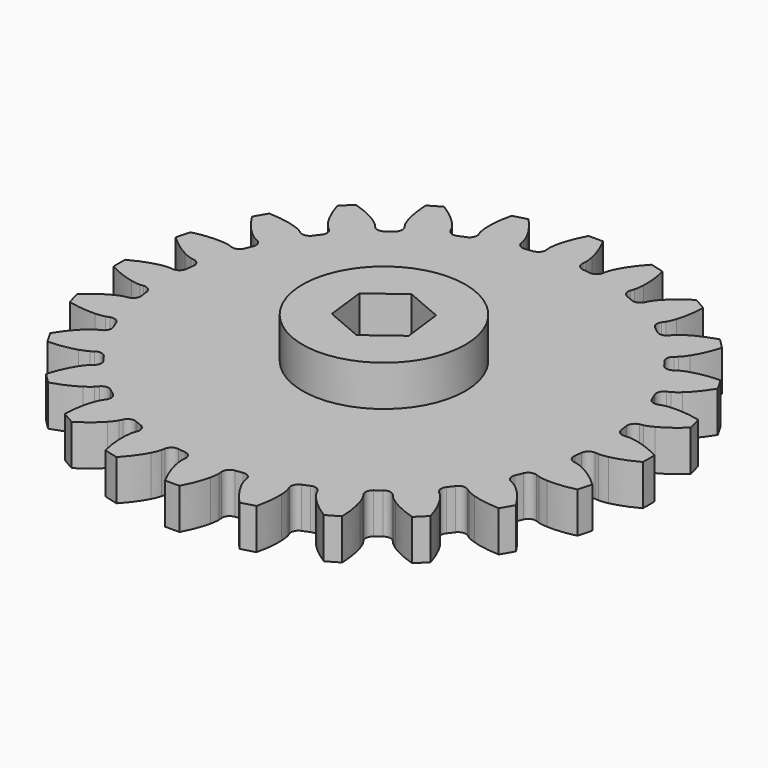
from build123d import *

# Parameters (mm, degrees)
PAD_DEPTH       = 5
SKETCH002_R     = 3
POCKET_DEPTH    = 5
SKETCH_R        = 10
PAD001_DEPTH    = 5
POCKET001_DEPTH = 5
POCKET002_DEPTH = 3


with BuildPart() as part:
    # InvoluteGear → Pad (new body)
    with BuildSketch(Plane.XY):
        with BuildLine():
            Line((27.707004, -2.231179), (28.147467, -2.264769))
            add(Edge.make_bspline(
                [(28.147467, -2.264769), (28.273431, -2.267597), (28.652855, -2.261591), (29.285049, -2.127529)],
                knots=[0, 0, 0, 0, 1, 1, 1, 1], degree=3))
            add(Edge.make_bspline(
                [(29.285049, -2.127529), (30.042188, -1.964859), (31.134803, -1.620017), (32.490331, -0.893376)],
                knots=[0, 0, 0, 0, 1, 1, 1, 1], degree=3))
            ThreePointArc((32.490331, -0.893376), (32.502612, 0), (32.490331, 0.893376))
            add(Edge.make_bspline(
                [(32.490331, 0.893376), (31.134803, 1.620017), (30.042188, 1.964859), (29.285049, 2.127529)],
                knots=[0, 0, 0, 0, 1, 1, 1, 1], degree=3))
            add(Edge.make_bspline(
                [(29.285049, 2.127529), (28.652855, 2.261591), (28.273431, 2.267597), (28.147467, 2.264769)],
                knots=[0, 0, 0, 0, 1, 1, 1, 1], degree=3))
            Line((28.147467, 2.264769), (27.707004, 2.231179))
            ThreePointArc((27.707004, 2.231179), (27.03651, 2.441367), (26.700404, 3.058436))
            ThreePointArc((26.700404, 3.058436), (26.645081, 3.507891), (26.582192, 3.956351))
            ThreePointArc((26.582192, 3.956351), (26.747136, 4.639385), (27.340383, 5.015947))
            Line((27.340383, 5.015947), (27.77453, 5.097502))
            add(Edge.make_bspline(
                [(27.77453, 5.097502), (27.896935, 5.127372), (28.261876, 5.231376), (28.83783, 5.524493)],
                knots=[0, 0, 0, 0, 1, 1, 1, 1], degree=3))
            add(Edge.make_bspline(
                [(28.83783, 5.524493), (29.527068, 5.877583), (30.493201, 6.493464), (31.614472, 7.546182)],
                knots=[0, 0, 0, 0, 1, 1, 1, 1], degree=3))
            ThreePointArc((31.614472, 7.546182), (31.395112, 8.412295), (31.152027, 9.272051))
            add(Edge.make_bspline(
                [(31.152027, 9.272051), (29.654619, 9.623096), (28.509983, 9.673398), (27.73654, 9.634563)],
                knots=[0, 0, 0, 0, 1, 1, 1, 1], degree=3))
            add(Edge.make_bspline(
                [(27.73654, 9.634563), (27.09119, 9.600434), (26.72314, 9.508033), (26.6022, 9.472699)],
                knots=[0, 0, 0, 0, 1, 1, 1, 1], degree=3))
            Line((26.6022, 9.472699), (26.185439, 9.326254))
            ThreePointArc((26.185439, 9.326254), (25.483391, 9.355743), (24.999029, 9.864795))
            ThreePointArc((24.999029, 9.864795), (24.829262, 10.284617), (24.652446, 10.701519))
            ThreePointArc((24.652446, 10.701519), (24.634988, 11.40397), (25.110559, 11.921244))
            Line((25.110559, 11.921244), (25.508806, 12.112386))
            add(Edge.make_bspline(
                [(25.508806, 12.112386), (25.619308, 12.172919), (25.944896, 12.367832), (26.42536, 12.80003)],
                knots=[0, 0, 0, 0, 1, 1, 1, 1], degree=3))
            add(Edge.make_bspline(
                [(26.42536, 12.80003), (26.999727, 13.319477), (27.773538, 14.164426), (28.58414, 15.471479)],
                knots=[0, 0, 0, 0, 1, 1, 1, 1], degree=3))
            ThreePointArc((28.58414, 15.471479), (28.148088, 16.251306), (27.690764, 17.018852))
            add(Edge.make_bspline(
                [(27.690764, 17.018852), (26.153522, 16.970377), (25.034869, 16.722711), (24.297832, 16.485018)],
                knots=[0, 0, 0, 0, 1, 1, 1, 1], degree=3))
            add(Edge.make_bspline(
                [(24.297832, 16.485018), (23.683305, 16.285023), (23.351711, 16.100512), (23.244037, 16.035081)],
                knots=[0, 0, 0, 0, 1, 1, 1, 1], degree=3))
            Line((23.244037, 16.035081), (22.87938, 15.78576))
            ThreePointArc((22.87938, 15.78576), (22.193621, 15.632541), (21.594011, 15.998885))
            ThreePointArc((21.594011, 15.998885), (21.321371, 16.360463), (21.042678, 16.717396))
            ThreePointArc((21.042678, 16.717396), (20.844007, 17.391393), (21.169493, 18.014129))
            Line((21.169493, 18.014129), (21.504698, 18.301831))
            add(Edge.make_bspline(
                [(21.504698, 18.301831), (21.595768, 18.388902), (21.859815, 18.661442), (22.212046, 19.203266)],
                knots=[0, 0, 0, 0, 1, 1, 1, 1], degree=3))
            add(Edge.make_bspline(
                [(22.212046, 19.203266), (22.6324, 19.85367), (23.161155, 20.870105), (23.605845, 22.342421)],
                knots=[0, 0, 0, 0, 1, 1, 1, 1], degree=3))
            ThreePointArc((23.605845, 22.342421), (22.982817, 22.982817), (22.342421, 23.605845))
            add(Edge.make_bspline(
                [(22.342421, 23.605845), (20.870105, 23.161155), (19.85367, 22.6324), (19.203266, 22.212046)],
                knots=[0, 0, 0, 0, 1, 1, 1, 1], degree=3))
            add(Edge.make_bspline(
                [(19.203266, 22.212046), (18.661442, 21.859815), (18.388902, 21.595768), (18.301831, 21.504698)],
                knots=[0, 0, 0, 0, 1, 1, 1, 1], degree=3))
            Line((18.301831, 21.504698), (18.014129, 21.169493))
            ThreePointArc((18.014129, 21.169493), (17.391393, 20.844007), (16.717396, 21.042678))
            ThreePointArc((16.717396, 21.042678), (16.360463, 21.321371), (15.998885, 21.594011))
            ThreePointArc((15.998885, 21.594011), (15.632541, 22.193621), (15.78576, 22.87938))
            Line((15.78576, 22.87938), (16.035081, 23.244037))
            add(Edge.make_bspline(
                [(16.035081, 23.244037), (16.100512, 23.351711), (16.285023, 23.683305), (16.485018, 24.297832)],
                knots=[0, 0, 0, 0, 1, 1, 1, 1], degree=3))
            add(Edge.make_bspline(
                [(16.485018, 24.297832), (16.722711, 25.034869), (16.970377, 26.153522), (17.018852, 27.690764)],
                knots=[0, 0, 0, 0, 1, 1, 1, 1], degree=3))
            ThreePointArc((17.018852, 27.690764), (16.251306, 28.148088), (15.471479, 28.58414))
            add(Edge.make_bspline(
                [(15.471479, 28.58414), (14.164426, 27.773538), (13.319477, 26.999727), (12.80003, 26.42536)],
                knots=[0, 0, 0, 0, 1, 1, 1, 1], degree=3))
            add(Edge.make_bspline(
                [(12.80003, 26.42536), (12.367832, 25.944896), (12.172919, 25.619308), (12.112386, 25.508806)],
                knots=[0, 0, 0, 0, 1, 1, 1, 1], degree=3))
            Line((12.112386, 25.508806), (11.921244, 25.110559))
            ThreePointArc((11.921244, 25.110559), (11.40397, 24.634988), (10.701519, 24.652446))
            ThreePointArc((10.701519, 24.652446), (10.284617, 24.829262), (9.864795, 24.999029))
            ThreePointArc((9.864795, 24.999029), (9.355743, 25.483391), (9.326254, 26.185439))
            Line((9.326254, 26.185439), (9.472699, 26.6022))
            add(Edge.make_bspline(
                [(9.472699, 26.6022), (9.508033, 26.72314), (9.600434, 27.09119), (9.634563, 27.73654)],
                knots=[0, 0, 0, 0, 1, 1, 1, 1], degree=3))
            add(Edge.make_bspline(
                [(9.634563, 27.73654), (9.673398, 28.509983), (9.623096, 29.654619), (9.272051, 31.152027)],
                knots=[0, 0, 0, 0, 1, 1, 1, 1], degree=3))
            ThreePointArc((9.272051, 31.152027), (8.412295, 31.395112), (7.546182, 31.614472))
            add(Edge.make_bspline(
                [(7.546182, 31.614472), (6.493464, 30.493201), (5.877583, 29.527068), (5.524493, 28.83783)],
                knots=[0, 0, 0, 0, 1, 1, 1, 1], degree=3))
            add(Edge.make_bspline(
                [(5.524493, 28.83783), (5.231376, 28.261876), (5.127372, 27.896935), (5.097502, 27.77453)],
                knots=[0, 0, 0, 0, 1, 1, 1, 1], degree=3))
            Line((5.097502, 27.77453), (5.015947, 27.340383))
            ThreePointArc((5.015947, 27.340383), (4.639385, 26.747136), (3.956351, 26.582192))
            ThreePointArc((3.956351, 26.582192), (3.507891, 26.645081), (3.058436, 26.700404))
            ThreePointArc((3.058436, 26.700404), (2.441367, 27.03651), (2.231179, 27.707004))
            Line((2.231179, 27.707004), (2.264769, 28.147467))
            add(Edge.make_bspline(
                [(2.264769, 28.147467), (2.267597, 28.273431), (2.261591, 28.652855), (2.127529, 29.285049)],
                knots=[0, 0, 0, 0, 1, 1, 1, 1], degree=3))
            add(Edge.make_bspline(
                [(2.127529, 29.285049), (1.964859, 30.042188), (1.620017, 31.134803), (0.893376, 32.490331)],
                knots=[0, 0, 0, 0, 1, 1, 1, 1], degree=3))
            ThreePointArc((0.893376, 32.490331), (0, 32.502612), (-0.893376, 32.490331))
            add(Edge.make_bspline(
                [(-0.893376, 32.490331), (-1.620017, 31.134803), (-1.964859, 30.042188), (-2.127529, 29.285049)],
                knots=[0, 0, 0, 0, 1, 1, 1, 1], degree=3))
            add(Edge.make_bspline(
                [(-2.127529, 29.285049), (-2.261591, 28.652855), (-2.267597, 28.273431), (-2.264769, 28.147467)],
                knots=[0, 0, 0, 0, 1, 1, 1, 1], degree=3))
            Line((-2.264769, 28.147467), (-2.231179, 27.707004))
            ThreePointArc((-2.231179, 27.707004), (-2.441367, 27.03651), (-3.058436, 26.700404))
            ThreePointArc((-3.058436, 26.700404), (-3.507891, 26.645081), (-3.956351, 26.582192))
            ThreePointArc((-3.956351, 26.582192), (-4.639385, 26.747136), (-5.015947, 27.340383))
            Line((-5.015947, 27.340383), (-5.097502, 27.77453))
            add(Edge.make_bspline(
                [(-5.097502, 27.77453), (-5.127372, 27.896935), (-5.231376, 28.261876), (-5.524493, 28.83783)],
                knots=[0, 0, 0, 0, 1, 1, 1, 1], degree=3))
            add(Edge.make_bspline(
                [(-5.524493, 28.83783), (-5.877583, 29.527068), (-6.493464, 30.493201), (-7.546182, 31.614472)],
                knots=[0, 0, 0, 0, 1, 1, 1, 1], degree=3))
            ThreePointArc((-7.546182, 31.614472), (-8.412295, 31.395112), (-9.272051, 31.152027))
            add(Edge.make_bspline(
                [(-9.272051, 31.152027), (-9.623096, 29.654619), (-9.673398, 28.509983), (-9.634563, 27.73654)],
                knots=[0, 0, 0, 0, 1, 1, 1, 1], degree=3))
            add(Edge.make_bspline(
                [(-9.634563, 27.73654), (-9.600434, 27.09119), (-9.508033, 26.72314), (-9.472699, 26.6022)],
                knots=[0, 0, 0, 0, 1, 1, 1, 1], degree=3))
            Line((-9.472699, 26.6022), (-9.326254, 26.185439))
            ThreePointArc((-9.326254, 26.185439), (-9.355743, 25.483391), (-9.864795, 24.999029))
            ThreePointArc((-9.864795, 24.999029), (-10.284617, 24.829262), (-10.701519, 24.652446))
            ThreePointArc((-10.701519, 24.652446), (-11.40397, 24.634988), (-11.921244, 25.110559))
            Line((-11.921244, 25.110559), (-12.112386, 25.508806))
            add(Edge.make_bspline(
                [(-12.112386, 25.508806), (-12.172919, 25.619308), (-12.367832, 25.944896), (-12.80003, 26.42536)],
                knots=[0, 0, 0, 0, 1, 1, 1, 1], degree=3))
            add(Edge.make_bspline(
                [(-12.80003, 26.42536), (-13.319477, 26.999727), (-14.164426, 27.773538), (-15.471479, 28.58414)],
                knots=[0, 0, 0, 0, 1, 1, 1, 1], degree=3))
            ThreePointArc((-15.471479, 28.58414), (-16.251306, 28.148088), (-17.018852, 27.690764))
            add(Edge.make_bspline(
                [(-17.018852, 27.690764), (-16.970377, 26.153522), (-16.722711, 25.034869), (-16.485018, 24.297832)],
                knots=[0, 0, 0, 0, 1, 1, 1, 1], degree=3))
            add(Edge.make_bspline(
                [(-16.485018, 24.297832), (-16.285023, 23.683305), (-16.100512, 23.351711), (-16.035081, 23.244037)],
                knots=[0, 0, 0, 0, 1, 1, 1, 1], degree=3))
            Line((-16.035081, 23.244037), (-15.78576, 22.87938))
            ThreePointArc((-15.78576, 22.87938), (-15.632541, 22.193621), (-15.998885, 21.594011))
            ThreePointArc((-15.998885, 21.594011), (-16.360463, 21.321371), (-16.717396, 21.042678))
            ThreePointArc((-16.717396, 21.042678), (-17.391393, 20.844007), (-18.014129, 21.169493))
            Line((-18.014129, 21.169493), (-18.301831, 21.504698))
            add(Edge.make_bspline(
                [(-18.301831, 21.504698), (-18.388902, 21.595768), (-18.661442, 21.859815), (-19.203266, 22.212046)],
                knots=[0, 0, 0, 0, 1, 1, 1, 1], degree=3))
            add(Edge.make_bspline(
                [(-19.203266, 22.212046), (-19.85367, 22.6324), (-20.870105, 23.161155), (-22.342421, 23.605845)],
                knots=[0, 0, 0, 0, 1, 1, 1, 1], degree=3))
            ThreePointArc((-22.342421, 23.605845), (-22.982817, 22.982817), (-23.605845, 22.342421))
            add(Edge.make_bspline(
                [(-23.605845, 22.342421), (-23.161155, 20.870105), (-22.6324, 19.85367), (-22.212046, 19.203266)],
                knots=[0, 0, 0, 0, 1, 1, 1, 1], degree=3))
            add(Edge.make_bspline(
                [(-22.212046, 19.203266), (-21.859815, 18.661442), (-21.595768, 18.388902), (-21.504698, 18.301831)],
                knots=[0, 0, 0, 0, 1, 1, 1, 1], degree=3))
            Line((-21.504698, 18.301831), (-21.169493, 18.014129))
            ThreePointArc((-21.169493, 18.014129), (-20.844007, 17.391393), (-21.042678, 16.717396))
            ThreePointArc((-21.042678, 16.717396), (-21.321371, 16.360463), (-21.594011, 15.998885))
            ThreePointArc((-21.594011, 15.998885), (-22.193621, 15.632541), (-22.87938, 15.78576))
            Line((-22.87938, 15.78576), (-23.244037, 16.035081))
            add(Edge.make_bspline(
                [(-23.244037, 16.035081), (-23.351711, 16.100512), (-23.683305, 16.285023), (-24.297832, 16.485018)],
                knots=[0, 0, 0, 0, 1, 1, 1, 1], degree=3))
            add(Edge.make_bspline(
                [(-24.297832, 16.485018), (-25.034869, 16.722711), (-26.153522, 16.970377), (-27.690764, 17.018852)],
                knots=[0, 0, 0, 0, 1, 1, 1, 1], degree=3))
            ThreePointArc((-27.690764, 17.018852), (-28.148088, 16.251306), (-28.58414, 15.471479))
            add(Edge.make_bspline(
                [(-28.58414, 15.471479), (-27.773538, 14.164426), (-26.999727, 13.319477), (-26.42536, 12.80003)],
                knots=[0, 0, 0, 0, 1, 1, 1, 1], degree=3))
            add(Edge.make_bspline(
                [(-26.42536, 12.80003), (-25.944896, 12.367832), (-25.619308, 12.172919), (-25.508806, 12.112386)],
                knots=[0, 0, 0, 0, 1, 1, 1, 1], degree=3))
            Line((-25.508806, 12.112386), (-25.110559, 11.921244))
            ThreePointArc((-25.110559, 11.921244), (-24.634988, 11.40397), (-24.652446, 10.701519))
            ThreePointArc((-24.652446, 10.701519), (-24.829262, 10.284617), (-24.999029, 9.864795))
            ThreePointArc((-24.999029, 9.864795), (-25.483391, 9.355743), (-26.185439, 9.326254))
            Line((-26.185439, 9.326254), (-26.6022, 9.472699))
            add(Edge.make_bspline(
                [(-26.6022, 9.472699), (-26.72314, 9.508033), (-27.09119, 9.600434), (-27.73654, 9.634563)],
                knots=[0, 0, 0, 0, 1, 1, 1, 1], degree=3))
            add(Edge.make_bspline(
                [(-27.73654, 9.634563), (-28.509983, 9.673398), (-29.654619, 9.623096), (-31.152027, 9.272051)],
                knots=[0, 0, 0, 0, 1, 1, 1, 1], degree=3))
            ThreePointArc((-31.152027, 9.272051), (-31.395112, 8.412295), (-31.614472, 7.546182))
            add(Edge.make_bspline(
                [(-31.614472, 7.546182), (-30.493201, 6.493464), (-29.527068, 5.877583), (-28.83783, 5.524493)],
                knots=[0, 0, 0, 0, 1, 1, 1, 1], degree=3))
            add(Edge.make_bspline(
                [(-28.83783, 5.524493), (-28.261876, 5.231376), (-27.896935, 5.127372), (-27.77453, 5.097502)],
                knots=[0, 0, 0, 0, 1, 1, 1, 1], degree=3))
            Line((-27.77453, 5.097502), (-27.340383, 5.015947))
            ThreePointArc((-27.340383, 5.015947), (-26.747136, 4.639385), (-26.582192, 3.956351))
            ThreePointArc((-26.582192, 3.956351), (-26.645081, 3.507891), (-26.700404, 3.058436))
            ThreePointArc((-26.700404, 3.058436), (-27.03651, 2.441367), (-27.707004, 2.231179))
            Line((-27.707004, 2.231179), (-28.147467, 2.264769))
            add(Edge.make_bspline(
                [(-28.147467, 2.264769), (-28.273431, 2.267597), (-28.652855, 2.261591), (-29.285049, 2.127529)],
                knots=[0, 0, 0, 0, 1, 1, 1, 1], degree=3))
            add(Edge.make_bspline(
                [(-29.285049, 2.127529), (-30.042188, 1.964859), (-31.134803, 1.620017), (-32.490331, 0.893376)],
                knots=[0, 0, 0, 0, 1, 1, 1, 1], degree=3))
            ThreePointArc((-32.490331, 0.893376), (-32.502612, 0), (-32.490331, -0.893376))
            add(Edge.make_bspline(
                [(-32.490331, -0.893376), (-31.134803, -1.620017), (-30.042188, -1.964859), (-29.285049, -2.127529)],
                knots=[0, 0, 0, 0, 1, 1, 1, 1], degree=3))
            add(Edge.make_bspline(
                [(-29.285049, -2.127529), (-28.652855, -2.261591), (-28.273431, -2.267597), (-28.147467, -2.264769)],
                knots=[0, 0, 0, 0, 1, 1, 1, 1], degree=3))
            Line((-28.147467, -2.264769), (-27.707004, -2.231179))
            ThreePointArc((-27.707004, -2.231179), (-27.03651, -2.441367), (-26.700404, -3.058436))
            ThreePointArc((-26.700404, -3.058436), (-26.645081, -3.507891), (-26.582192, -3.956351))
            ThreePointArc((-26.582192, -3.956351), (-26.747136, -4.639385), (-27.340383, -5.015947))
            Line((-27.340383, -5.015947), (-27.77453, -5.097502))
            add(Edge.make_bspline(
                [(-27.77453, -5.097502), (-27.896935, -5.127372), (-28.261876, -5.231376), (-28.83783, -5.524493)],
                knots=[0, 0, 0, 0, 1, 1, 1, 1], degree=3))
            add(Edge.make_bspline(
                [(-28.83783, -5.524493), (-29.527068, -5.877583), (-30.493201, -6.493464), (-31.614472, -7.546182)],
                knots=[0, 0, 0, 0, 1, 1, 1, 1], degree=3))
            ThreePointArc((-31.614472, -7.546182), (-31.395112, -8.412295), (-31.152027, -9.272051))
            add(Edge.make_bspline(
                [(-31.152027, -9.272051), (-29.654619, -9.623096), (-28.509983, -9.673398), (-27.73654, -9.634563)],
                knots=[0, 0, 0, 0, 1, 1, 1, 1], degree=3))
            add(Edge.make_bspline(
                [(-27.73654, -9.634563), (-27.09119, -9.600434), (-26.72314, -9.508033), (-26.6022, -9.472699)],
                knots=[0, 0, 0, 0, 1, 1, 1, 1], degree=3))
            Line((-26.6022, -9.472699), (-26.185439, -9.326254))
            ThreePointArc((-26.185439, -9.326254), (-25.483391, -9.355743), (-24.999029, -9.864795))
            ThreePointArc((-24.999029, -9.864795), (-24.829262, -10.284617), (-24.652446, -10.701519))
            ThreePointArc((-24.652446, -10.701519), (-24.634988, -11.40397), (-25.110559, -11.921244))
            Line((-25.110559, -11.921244), (-25.508806, -12.112386))
            add(Edge.make_bspline(
                [(-25.508806, -12.112386), (-25.619308, -12.172919), (-25.944896, -12.367832), (-26.42536, -12.80003)],
                knots=[0, 0, 0, 0, 1, 1, 1, 1], degree=3))
            add(Edge.make_bspline(
                [(-26.42536, -12.80003), (-26.999727, -13.319477), (-27.773538, -14.164426), (-28.58414, -15.471479)],
                knots=[0, 0, 0, 0, 1, 1, 1, 1], degree=3))
            ThreePointArc((-28.58414, -15.471479), (-28.148088, -16.251306), (-27.690764, -17.018852))
            add(Edge.make_bspline(
                [(-27.690764, -17.018852), (-26.153522, -16.970377), (-25.034869, -16.722711), (-24.297832, -16.485018)],
                knots=[0, 0, 0, 0, 1, 1, 1, 1], degree=3))
            add(Edge.make_bspline(
                [(-24.297832, -16.485018), (-23.683305, -16.285023), (-23.351711, -16.100512), (-23.244037, -16.035081)],
                knots=[0, 0, 0, 0, 1, 1, 1, 1], degree=3))
            Line((-23.244037, -16.035081), (-22.87938, -15.78576))
            ThreePointArc((-22.87938, -15.78576), (-22.193621, -15.632541), (-21.594011, -15.998885))
            ThreePointArc((-21.594011, -15.998885), (-21.321371, -16.360463), (-21.042678, -16.717396))
            ThreePointArc((-21.042678, -16.717396), (-20.844007, -17.391393), (-21.169493, -18.014129))
            Line((-21.169493, -18.014129), (-21.504698, -18.301831))
            add(Edge.make_bspline(
                [(-21.504698, -18.301831), (-21.595768, -18.388902), (-21.859815, -18.661442), (-22.212046, -19.203266)],
                knots=[0, 0, 0, 0, 1, 1, 1, 1], degree=3))
            add(Edge.make_bspline(
                [(-22.212046, -19.203266), (-22.6324, -19.85367), (-23.161155, -20.870105), (-23.605845, -22.342421)],
                knots=[0, 0, 0, 0, 1, 1, 1, 1], degree=3))
            ThreePointArc((-23.605845, -22.342421), (-22.982817, -22.982817), (-22.342421, -23.605845))
            add(Edge.make_bspline(
                [(-22.342421, -23.605845), (-20.870105, -23.161155), (-19.85367, -22.6324), (-19.203266, -22.212046)],
                knots=[0, 0, 0, 0, 1, 1, 1, 1], degree=3))
            add(Edge.make_bspline(
                [(-19.203266, -22.212046), (-18.661442, -21.859815), (-18.388902, -21.595768), (-18.301831, -21.504698)],
                knots=[0, 0, 0, 0, 1, 1, 1, 1], degree=3))
            Line((-18.301831, -21.504698), (-18.014129, -21.169493))
            ThreePointArc((-18.014129, -21.169493), (-17.391393, -20.844007), (-16.717396, -21.042678))
            ThreePointArc((-16.717396, -21.042678), (-16.360463, -21.321371), (-15.998885, -21.594011))
            ThreePointArc((-15.998885, -21.594011), (-15.632541, -22.193621), (-15.78576, -22.87938))
            Line((-15.78576, -22.87938), (-16.035081, -23.244037))
            add(Edge.make_bspline(
                [(-16.035081, -23.244037), (-16.100512, -23.351711), (-16.285023, -23.683305), (-16.485018, -24.297832)],
                knots=[0, 0, 0, 0, 1, 1, 1, 1], degree=3))
            add(Edge.make_bspline(
                [(-16.485018, -24.297832), (-16.722711, -25.034869), (-16.970377, -26.153522), (-17.018852, -27.690764)],
                knots=[0, 0, 0, 0, 1, 1, 1, 1], degree=3))
            ThreePointArc((-17.018852, -27.690764), (-16.251306, -28.148088), (-15.471479, -28.58414))
            add(Edge.make_bspline(
                [(-15.471479, -28.58414), (-14.164426, -27.773538), (-13.319477, -26.999727), (-12.80003, -26.42536)],
                knots=[0, 0, 0, 0, 1, 1, 1, 1], degree=3))
            add(Edge.make_bspline(
                [(-12.80003, -26.42536), (-12.367832, -25.944896), (-12.172919, -25.619308), (-12.112386, -25.508806)],
                knots=[0, 0, 0, 0, 1, 1, 1, 1], degree=3))
            Line((-12.112386, -25.508806), (-11.921244, -25.110559))
            ThreePointArc((-11.921244, -25.110559), (-11.40397, -24.634988), (-10.701519, -24.652446))
            ThreePointArc((-10.701519, -24.652446), (-10.284617, -24.829262), (-9.864795, -24.999029))
            ThreePointArc((-9.864795, -24.999029), (-9.355743, -25.483391), (-9.326254, -26.185439))
            Line((-9.326254, -26.185439), (-9.472699, -26.6022))
            add(Edge.make_bspline(
                [(-9.472699, -26.6022), (-9.508033, -26.72314), (-9.600434, -27.09119), (-9.634563, -27.73654)],
                knots=[0, 0, 0, 0, 1, 1, 1, 1], degree=3))
            add(Edge.make_bspline(
                [(-9.634563, -27.73654), (-9.673398, -28.509983), (-9.623096, -29.654619), (-9.272051, -31.152027)],
                knots=[0, 0, 0, 0, 1, 1, 1, 1], degree=3))
            ThreePointArc((-9.272051, -31.152027), (-8.412295, -31.395112), (-7.546182, -31.614472))
            add(Edge.make_bspline(
                [(-7.546182, -31.614472), (-6.493464, -30.493201), (-5.877583, -29.527068), (-5.524493, -28.83783)],
                knots=[0, 0, 0, 0, 1, 1, 1, 1], degree=3))
            add(Edge.make_bspline(
                [(-5.524493, -28.83783), (-5.231376, -28.261876), (-5.127372, -27.896935), (-5.097502, -27.77453)],
                knots=[0, 0, 0, 0, 1, 1, 1, 1], degree=3))
            Line((-5.097502, -27.77453), (-5.015947, -27.340383))
            ThreePointArc((-5.015947, -27.340383), (-4.639385, -26.747136), (-3.956351, -26.582192))
            ThreePointArc((-3.956351, -26.582192), (-3.507891, -26.645081), (-3.058436, -26.700404))
            ThreePointArc((-3.058436, -26.700404), (-2.441367, -27.03651), (-2.231179, -27.707004))
            Line((-2.231179, -27.707004), (-2.264769, -28.147467))
            add(Edge.make_bspline(
                [(-2.264769, -28.147467), (-2.267597, -28.273431), (-2.261591, -28.652855), (-2.127529, -29.285049)],
                knots=[0, 0, 0, 0, 1, 1, 1, 1], degree=3))
            add(Edge.make_bspline(
                [(-2.127529, -29.285049), (-1.964859, -30.042188), (-1.620017, -31.134803), (-0.893376, -32.490331)],
                knots=[0, 0, 0, 0, 1, 1, 1, 1], degree=3))
            ThreePointArc((-0.893376, -32.490331), (0, -32.502612), (0.893376, -32.490331))
            add(Edge.make_bspline(
                [(0.893376, -32.490331), (1.620017, -31.134803), (1.964859, -30.042188), (2.127529, -29.285049)],
                knots=[0, 0, 0, 0, 1, 1, 1, 1], degree=3))
            add(Edge.make_bspline(
                [(2.127529, -29.285049), (2.261591, -28.652855), (2.267597, -28.273431), (2.264769, -28.147467)],
                knots=[0, 0, 0, 0, 1, 1, 1, 1], degree=3))
            Line((2.264769, -28.147467), (2.231179, -27.707004))
            ThreePointArc((2.231179, -27.707004), (2.441367, -27.03651), (3.058436, -26.700404))
            ThreePointArc((3.058436, -26.700404), (3.507891, -26.645081), (3.956351, -26.582192))
            ThreePointArc((3.956351, -26.582192), (4.639385, -26.747136), (5.015947, -27.340383))
            Line((5.015947, -27.340383), (5.097502, -27.77453))
            add(Edge.make_bspline(
                [(5.097502, -27.77453), (5.127372, -27.896935), (5.231376, -28.261876), (5.524493, -28.83783)],
                knots=[0, 0, 0, 0, 1, 1, 1, 1], degree=3))
            add(Edge.make_bspline(
                [(5.524493, -28.83783), (5.877583, -29.527068), (6.493464, -30.493201), (7.546182, -31.614472)],
                knots=[0, 0, 0, 0, 1, 1, 1, 1], degree=3))
            ThreePointArc((7.546182, -31.614472), (8.412295, -31.395112), (9.272051, -31.152027))
            add(Edge.make_bspline(
                [(9.272051, -31.152027), (9.623096, -29.654619), (9.673398, -28.509983), (9.634563, -27.73654)],
                knots=[0, 0, 0, 0, 1, 1, 1, 1], degree=3))
            add(Edge.make_bspline(
                [(9.634563, -27.73654), (9.600434, -27.09119), (9.508033, -26.72314), (9.472699, -26.6022)],
                knots=[0, 0, 0, 0, 1, 1, 1, 1], degree=3))
            Line((9.472699, -26.6022), (9.326254, -26.185439))
            ThreePointArc((9.326254, -26.185439), (9.355743, -25.483391), (9.864795, -24.999029))
            ThreePointArc((9.864795, -24.999029), (10.284617, -24.829262), (10.701519, -24.652446))
            ThreePointArc((10.701519, -24.652446), (11.40397, -24.634988), (11.921244, -25.110559))
            Line((11.921244, -25.110559), (12.112386, -25.508806))
            add(Edge.make_bspline(
                [(12.112386, -25.508806), (12.172919, -25.619308), (12.367832, -25.944896), (12.80003, -26.42536)],
                knots=[0, 0, 0, 0, 1, 1, 1, 1], degree=3))
            add(Edge.make_bspline(
                [(12.80003, -26.42536), (13.319477, -26.999727), (14.164426, -27.773538), (15.471479, -28.58414)],
                knots=[0, 0, 0, 0, 1, 1, 1, 1], degree=3))
            ThreePointArc((15.471479, -28.58414), (16.251306, -28.148088), (17.018852, -27.690764))
            add(Edge.make_bspline(
                [(17.018852, -27.690764), (16.970377, -26.153522), (16.722711, -25.034869), (16.485018, -24.297832)],
                knots=[0, 0, 0, 0, 1, 1, 1, 1], degree=3))
            add(Edge.make_bspline(
                [(16.485018, -24.297832), (16.285023, -23.683305), (16.100512, -23.351711), (16.035081, -23.244037)],
                knots=[0, 0, 0, 0, 1, 1, 1, 1], degree=3))
            Line((16.035081, -23.244037), (15.78576, -22.87938))
            ThreePointArc((15.78576, -22.87938), (15.632541, -22.193621), (15.998885, -21.594011))
            ThreePointArc((15.998885, -21.594011), (16.360463, -21.321371), (16.717396, -21.042678))
            ThreePointArc((16.717396, -21.042678), (17.391393, -20.844007), (18.014129, -21.169493))
            Line((18.014129, -21.169493), (18.301831, -21.504698))
            add(Edge.make_bspline(
                [(18.301831, -21.504698), (18.388902, -21.595768), (18.661442, -21.859815), (19.203266, -22.212046)],
                knots=[0, 0, 0, 0, 1, 1, 1, 1], degree=3))
            add(Edge.make_bspline(
                [(19.203266, -22.212046), (19.85367, -22.6324), (20.870105, -23.161155), (22.342421, -23.605845)],
                knots=[0, 0, 0, 0, 1, 1, 1, 1], degree=3))
            ThreePointArc((22.342421, -23.605845), (22.982817, -22.982817), (23.605845, -22.342421))
            add(Edge.make_bspline(
                [(23.605845, -22.342421), (23.161155, -20.870105), (22.6324, -19.85367), (22.212046, -19.203266)],
                knots=[0, 0, 0, 0, 1, 1, 1, 1], degree=3))
            add(Edge.make_bspline(
                [(22.212046, -19.203266), (21.859815, -18.661442), (21.595768, -18.388902), (21.504698, -18.301831)],
                knots=[0, 0, 0, 0, 1, 1, 1, 1], degree=3))
            Line((21.504698, -18.301831), (21.169493, -18.014129))
            ThreePointArc((21.169493, -18.014129), (20.844007, -17.391393), (21.042678, -16.717396))
            ThreePointArc((21.042678, -16.717396), (21.321371, -16.360463), (21.594011, -15.998885))
            ThreePointArc((21.594011, -15.998885), (22.193621, -15.632541), (22.87938, -15.78576))
            Line((22.87938, -15.78576), (23.244037, -16.035081))
            add(Edge.make_bspline(
                [(23.244037, -16.035081), (23.351711, -16.100512), (23.683305, -16.285023), (24.297832, -16.485018)],
                knots=[0, 0, 0, 0, 1, 1, 1, 1], degree=3))
            add(Edge.make_bspline(
                [(24.297832, -16.485018), (25.034869, -16.722711), (26.153522, -16.970377), (27.690764, -17.018852)],
                knots=[0, 0, 0, 0, 1, 1, 1, 1], degree=3))
            ThreePointArc((27.690764, -17.018852), (28.148088, -16.251306), (28.58414, -15.471479))
            add(Edge.make_bspline(
                [(28.58414, -15.471479), (27.773538, -14.164426), (26.999727, -13.319477), (26.42536, -12.80003)],
                knots=[0, 0, 0, 0, 1, 1, 1, 1], degree=3))
            add(Edge.make_bspline(
                [(26.42536, -12.80003), (25.944896, -12.367832), (25.619308, -12.172919), (25.508806, -12.112386)],
                knots=[0, 0, 0, 0, 1, 1, 1, 1], degree=3))
            Line((25.508806, -12.112386), (25.110559, -11.921244))
            ThreePointArc((25.110559, -11.921244), (24.634988, -11.40397), (24.652446, -10.701519))
            ThreePointArc((24.652446, -10.701519), (24.829262, -10.284617), (24.999029, -9.864795))
            ThreePointArc((24.999029, -9.864795), (25.483391, -9.355743), (26.185439, -9.326254))
            Line((26.185439, -9.326254), (26.6022, -9.472699))
            add(Edge.make_bspline(
                [(26.6022, -9.472699), (26.72314, -9.508033), (27.09119, -9.600434), (27.73654, -9.634563)],
                knots=[0, 0, 0, 0, 1, 1, 1, 1], degree=3))
            add(Edge.make_bspline(
                [(27.73654, -9.634563), (28.509983, -9.673398), (29.654619, -9.623096), (31.152027, -9.272051)],
                knots=[0, 0, 0, 0, 1, 1, 1, 1], degree=3))
            ThreePointArc((31.152027, -9.272051), (31.395112, -8.412295), (31.614472, -7.546182))
            add(Edge.make_bspline(
                [(31.614472, -7.546182), (30.493201, -6.493464), (29.527068, -5.877583), (28.83783, -5.524493)],
                knots=[0, 0, 0, 0, 1, 1, 1, 1], degree=3))
            add(Edge.make_bspline(
                [(28.83783, -5.524493), (28.261876, -5.231376), (27.896935, -5.127372), (27.77453, -5.097502)],
                knots=[0, 0, 0, 0, 1, 1, 1, 1], degree=3))
            Line((27.77453, -5.097502), (27.340383, -5.015947))
            ThreePointArc((27.340383, -5.015947), (26.747136, -4.639385), (26.582192, -3.956351))
            ThreePointArc((26.582192, -3.956351), (26.645081, -3.507891), (26.700404, -3.058436))
            ThreePointArc((26.700404, -3.058436), (27.03651, -2.441367), (27.707004, -2.231179))
        make_face()
    extrude(amount=PAD_DEPTH)

    # Sketch002 → Pocket (cut)
    with BuildSketch(Plane.XY.offset(5)):
        Circle(SKETCH002_R)
    extrude(amount=-POCKET_DEPTH, mode=Mode.SUBTRACT)

    # Sketch → Pad001 (new body)
    with BuildSketch(Plane.XY.offset(5)):
        Circle(SKETCH_R)
    extrude(amount=PAD001_DEPTH)

    # Sketch001 → Pocket001 (cut)
    with BuildSketch(Plane.XY.offset(10)):
        Polygon((4, 3), (-0.598076, 4.964102), (-4.598076, 1.964102), (-4, -3), (0.598076, -4.964102), (4.598076, -1.964102), align=None)
    extrude(amount=-POCKET001_DEPTH, mode=Mode.SUBTRACT)

    # Sketch006 → Pocket002 (cut)
    with BuildSketch(Plane.XY.offset(5)):
        Polygon((4, 3), (-0.598076, 4.964102), (-4.598076, 1.964102), (-4, -3), (0.598076, -4.964102), (4.598076, -1.964102), align=None)
    extrude(amount=-POCKET002_DEPTH, mode=Mode.SUBTRACT)


solid = part.part
